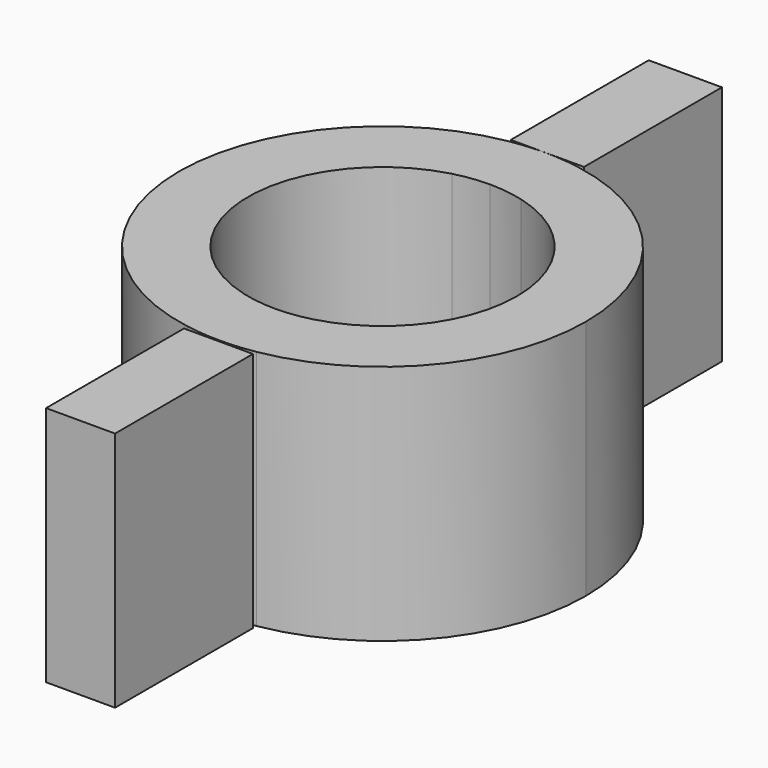
from build123d import *

# Parameters (mm, degrees)
F1_DEPTH = 7
F0_W     = 2
F0_H     = 5


with BuildPart() as f1:
    # F0 (on Top) → F1 (new body)
    with BuildSketch(Plane.XY):
        with BuildLine():
            ThreePointArc((-51.3822378814, 8.4123586511), (-54.2822378814, 12.1819740161), (-51.3822378814, 15.9515893811))
            Line((-51.3822378814, 15.9515893811), (-51.3822378814, 17.9966107202))
            ThreePointArc((-51.3822378814, 17.9966107202), (-56.2822378814, 12.1819740161), (-51.3822378814, 6.3673373121))
            Line((-51.3822378814, 6.3673373121), (-51.3822378814, 8.4123586511))
        make_face()
        with BuildLine():
            ThreePointArc((-49.3822378814, 15.9515893811), (-47.2911215782, 14.5599984062), (-46.4822378814, 12.1819740161))
            ThreePointArc((-46.4822378814, 12.1819740161), (-47.2911215782, 9.803949626), (-49.3822378814, 8.4123586511))
            Line((-49.3822378814, 8.4123586511), (-49.3822378814, 6.3673373121))
            ThreePointArc((-49.3822378814, 6.3673373121), (-45.8705862991, 8.3800008442), (-44.4822378814, 12.1819740161))
            ThreePointArc((-44.4822378814, 12.1819740161), (-45.8705862991, 15.9839471881), (-49.3822378814, 17.9966107202))
            Line((-49.3822378814, 17.9966107202), (-49.3822378814, 15.9515893811))
        make_face()
        with BuildLine():
            ThreePointArc((-50.3822378814, 16.0819740161), (-49.8780057541, 16.0492404876), (-49.3822378814, 15.9515893811))
            Line((-49.3822378814, 15.9515893811), (-49.3822378814, 17.9966107202))
            ThreePointArc((-49.3822378814, 17.9966107202), (-49.880419465, 18.0605944561), (-50.3822378814, 18.0819740161))
            Line((-50.3822378814, 18.0819740161), (-50.3822378814, 16.0819740161))
        make_face()
        with BuildLine():
            ThreePointArc((-51.3822378814, 15.9515893811), (-50.8864700088, 16.0492404876), (-50.3822378814, 16.0819740161))
            Line((-50.3822378814, 16.0819740161), (-50.3822378814, 18.0819740161))
            ThreePointArc((-50.3822378814, 18.0819740161), (-50.8840562979, 18.0605944561), (-51.3822378814, 17.9966107202))
            Line((-51.3822378814, 17.9966107202), (-51.3822378814, 15.9515893811))
        make_face()
        with BuildLine():
            Line((-50.3822378814, 6.2819740161), (-50.3822378814, 8.2819740161))
            ThreePointArc((-50.3822378814, 8.2819740161), (-50.8864700088, 8.3147075446), (-51.3822378814, 8.4123586511))
            Line((-51.3822378814, 8.4123586511), (-51.3822378814, 6.3673373121))
            ThreePointArc((-51.3822378814, 6.3673373121), (-50.8840562979, 6.3033535762), (-50.3822378814, 6.2819740161))
        make_face()
        with BuildLine():
            Line((-49.3822378814, 6.3673373121), (-49.3822378814, 8.4123586511))
            ThreePointArc((-49.3822378814, 8.4123586511), (-49.8780057541, 8.3147075446), (-50.3822378814, 8.2819740161))
            Line((-50.3822378814, 8.2819740161), (-50.3822378814, 6.2819740161))
            ThreePointArc((-50.3822378814, 6.2819740161), (-49.880419465, 6.3033535762), (-49.3822378814, 6.3673373121))
        make_face()
    extrude(amount=F1_DEPTH)


with BuildPart() as f1b:
    # F0 (on Top) → F1, piece 2 (new body)
    with BuildSketch(Plane.XY):
        Polygon((-51.3822378814, 18.0819740161), (-50.3822378814, 18.0819740161), (-49.3822378814, 18.0819740161), (-49.2586456239, 18.0819740161), (-49.2586456239, 23.0819740161), (-51.3822378814, 23.0819740161), align=None)
    extrude(amount=F1_DEPTH)


with BuildPart() as f1c:
    # F0 (on Top) → F1, piece 3 (new body)
    with BuildSketch(Plane.XY):
        with Locations((-50.3822378814, 3.7373728678)):
            Rectangle(F0_W, F0_H)
    extrude(amount=F1_DEPTH)


solid = Compound([f1.part, f1b.part, f1c.part])
